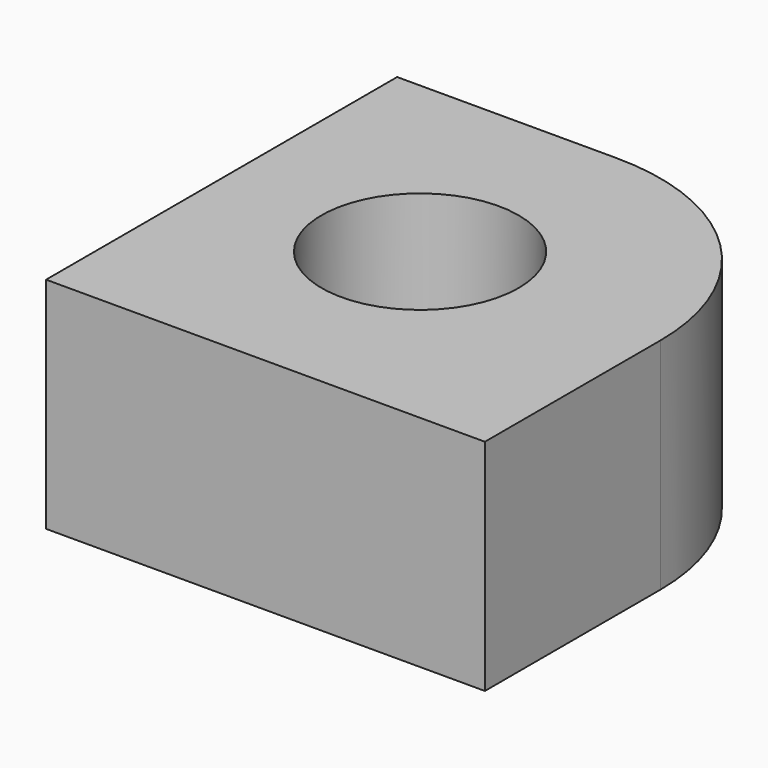
from build123d import *

# Parameters (mm, degrees)
F0_R     = 4.491427
F1_DEPTH = 10


with BuildPart() as f1:
    # F0 (on Top) → F1 (new body)
    with BuildSketch(Plane.XY):
        with BuildLine():
            Line((4.891327, 3.376778), (-5.108673, 3.376778))
            Line((-5.108673, 3.376778), (-5.108673, -16.623222))
            Line((-5.108673, -16.623222), (14.891327, -16.623222))
            Line((14.891327, -16.623222), (14.891327, -6.623222))
            ThreePointArc((14.891327, -6.623222), (11.962394, 0.447846), (4.891327, 3.376778))
        make_face()
        with Locations((3.936479, -6.623222)):
            Circle(F0_R, mode=Mode.SUBTRACT)
    extrude(amount=F1_DEPTH)


solid = f1.part
